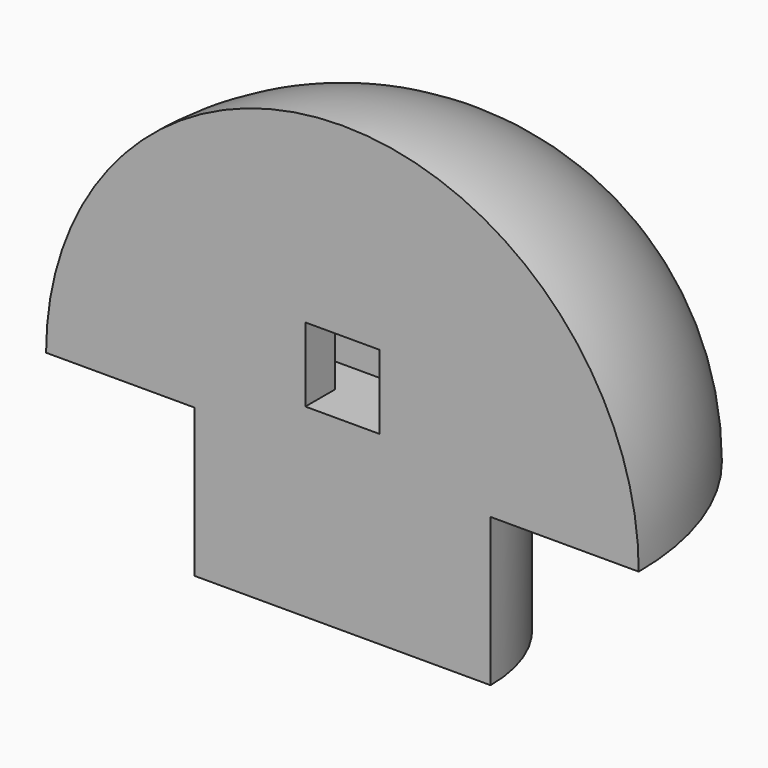
from build123d import *

# Parameters (mm, degrees)
F1_ANGLE = 180
F2_W     = 3.175
F2_H     = 3.175
F3_DEPTH = 3.175
F4_W     = 1.5875
F4_H     = 3.175
F5_DEPTH = 1.5875
F6_W     = 1.5875
F6_H     = 3.175
F7_DEPTH = 1.5875


with BuildPart() as f1:
    # F0 (on Front) → F1 (revolve)
    with BuildSketch(Plane.XZ):
        with BuildLine():
            Line((6.35, 0), (12.7, 0))
            ThreePointArc((12.7, 0), (8.9802561211, 8.9802561211), (0, 12.7))
            Line((0, 12.7), (0, 0))
            Line((0, 0), (0, -6.35))
            Line((0, -6.35), (6.35, -6.35))
            Line((6.35, -6.35), (6.35, 0))
        make_face()
    revolve(axis=Axis((0, 0, 3.175), (0, 0, 1)), revolution_arc=F1_ANGLE)

    # F2 (on face) → F3 (cut)
    with BuildSketch(Plane.XZ):
        with Locations((0, 3.1705502801)):
            Rectangle(F2_W, F2_H)
    extrude(amount=-F3_DEPTH, mode=Mode.SUBTRACT)

    # F4 (on face) → F5 (cut)
    with BuildSketch(Plane(origin=(1.5875, 0, 0), x_dir=(0, -1, 0), z_dir=(-1, 0, 0))):
        with Locations((-2.38125, 3.1705502801)):
            Rectangle(F4_W, F4_H)
    extrude(amount=-F5_DEPTH, mode=Mode.SUBTRACT)

    # F6 (on face) → F7 (cut)
    with BuildSketch(Plane.YZ.offset(-1.5875)):
        with Locations((2.38125, 3.1705502801)):
            Rectangle(F6_W, F6_H)
    extrude(amount=-F7_DEPTH, mode=Mode.SUBTRACT)

    # F10 (on offset) → F11 (revolve)
    with BuildSketch(Plane.XZ.offset(-5.334)):
        with BuildLine():
            Line((2.2999537177, -1.2474206742), (2.2999537177, -0.1679093605))
            ThreePointArc((2.2999537177, -0.1679093605), (1.2204424041, -1.2474206742), (2.2999537177, -2.3269319879))
            Line((2.2999537177, -2.3269319879), (2.2999537177, -1.2474206742))
        make_face()
    revolve(axis=Axis((2.2999537177, 5.334, -1.787176331), (0, 0, -1)))


solid = f1.part
